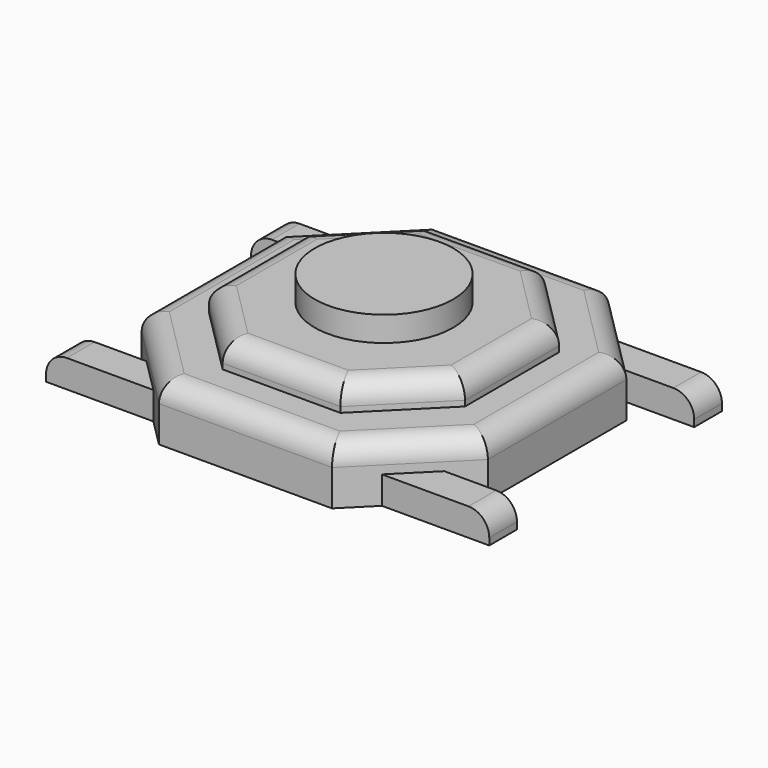
from build123d import *

# Parameters (mm, degrees)
F0_R     = 1
F1_DEPTH = 1.56
F2_DEPTH = 1.2
F3_DEPTH = 0.82
F4_DEPTH = 0.4
F5_R     = 0.3


with BuildPart() as f1:
    # F0 (on Top) → F1 (new body)
    with BuildSketch(Plane.XY):
        Circle(F0_R)
    extrude(amount=F1_DEPTH)

    # F0 (on Top) → F2 (join)
    with BuildSketch(Plane.XY):
        Polygon((0.85, 1.85), (-0.85, 1.85), (-1.85, 0.85), (-1.85, -0.85), (-0.85, -1.85), (0.85, -1.85), (1.85, -0.85), (1.85, 0.85), align=None)
        Circle(F0_R, mode=Mode.SUBTRACT)
    extrude(amount=F2_DEPTH)

    # F0 (on Top) → F3 (join)
    with BuildSketch(Plane.XY):
        Polygon((1.25, 2.5), (-1.25, 2.5), (-1.65, 2.1), (-2.15, 1.6), (-2.5, 1.25), (-2.5, -1.25), (-2.15, -1.6), (-1.65, -2.1), (-1.25, -2.5), (1.25, -2.5), (1.65, -2.1), (2.15, -1.6), (2.5, -1.25), (2.5, 1.25), (2.15, 1.6), (1.65, 2.1), align=None)
        Polygon((-1.85, 0.85), (-0.85, 1.85), (0.85, 1.85), (1.85, 0.85), (1.85, -0.85), (0.85, -1.85), (-0.85, -1.85), (-1.85, -0.85), align=None, mode=Mode.SUBTRACT)
    extrude(amount=F3_DEPTH)

    # F0 (on Top) → F4 (join)
    with BuildSketch(Plane.XY):
        Polygon((-2.15, 1.6), (-1.65, 2.1), (-3.2, 2.1), (-3.2, 1.6), align=None)
        Polygon((-1.65, -2.1), (-2.15, -1.6), (-3.2, -1.6), (-3.2, -2.1), align=None)
        Polygon((3.2, -1.6), (2.15, -1.6), (1.65, -2.1), (3.2, -2.1), align=None)
        Polygon((3.2, 2.1), (1.65, 2.1), (2.15, 1.6), (3.2, 1.6), align=None)
    extrude(amount=F4_DEPTH)

    # F5
    f5_edges = [f1.edges().sort_by_distance(p)[0] for p in [
        (-1.35, 1.35, 1.2),
        (-1.85, 0, 1.2),
        (-1.35, -1.35, 1.2),
        (0, -1.85, 1.2),
        (1.35, -1.35, 1.2),
        (1.85, 0, 1.2),
        (1.35, 1.35, 1.2),
        (0, 1.85, 1.2),
        (-1.875, 1.875, 0.82),
        (-2.5, 0, 0.82),
        (-1.875, -1.875, 0.82),
        (0, -2.5, 0.82),
        (1.875, -1.875, 0.82),
        (2.5, 0, 0.82),
        (1.875, 1.875, 0.82),
        (0, 2.5, 0.82),
        (-3.2, 1.85, 0.4),
        (-3.2, -1.85, 0.4),
        (3.2, -1.85, 0.4),
        (3.2, 1.85, 0.4),
    ]]
    fillet(f5_edges, radius=F5_R)


solid = f1.part
